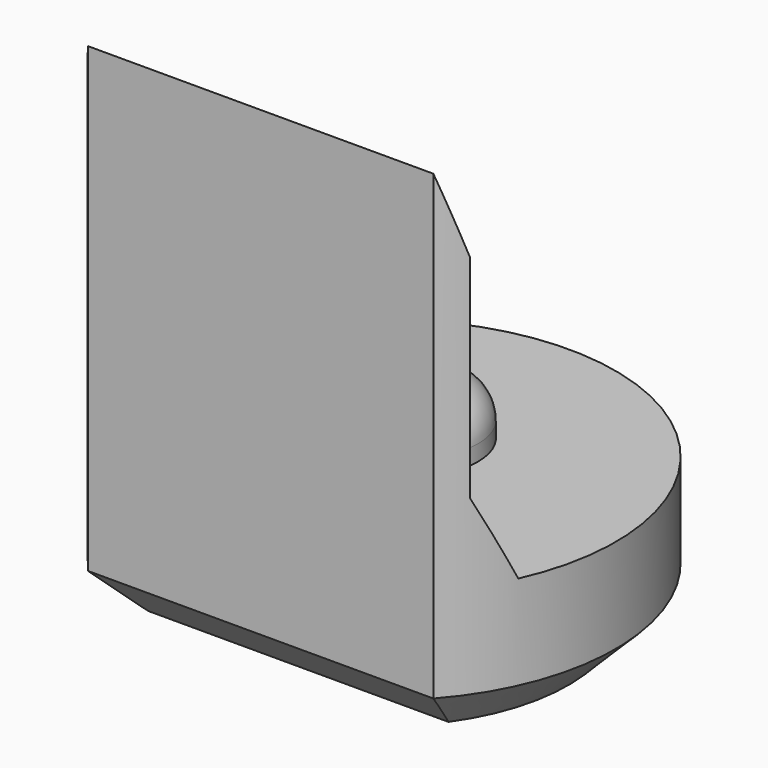
from build123d import *

# Parameters (mm, degrees)
PAD003_DEPTH         = 6.5
POCKET004_DEPTH      = 2.951
POCKET004_DEPTH_BACK = 2.951
SKETCH013_R          = 0.8
PAD006_DEPTH         = 0.7
FILLET_R             = 0.5
CHAMFER004_SIZE      = 0.6


with BuildPart() as part:
    # Sketch004 → Pad003 (new body)
    with BuildSketch(Plane.XY):
        with BuildLine():
            ThreePointArc((2.2, -1.9653244007), (0, 2.95), (-2.2, -1.9653244007))
            Line((-2.2, -1.9653244007), (2.2, -1.9653244007))
        make_face()
    extrude(amount=PAD003_DEPTH)

    # Sketch014 → Pocket004 (cut, two sides)
    with BuildSketch(Plane.YZ) as pocket004_sk:
        Polygon((-1.97, 6.5), (-1.67, 5.5), (-1.67, 2.8), (-1.22, 1.8), (4, 1.8), (4, 6.5), align=None)
    extrude(amount=-POCKET004_DEPTH, mode=Mode.SUBTRACT)
    extrude(pocket004_sk.sketch, amount=POCKET004_DEPTH_BACK, mode=Mode.SUBTRACT)

    # Sketch013 (on Face7 of Pocket004) → Pad006 (join)
    with BuildSketch(Plane.XY.offset(1.8)):
        with Locations((0, 0.5)):
            Circle(SKETCH013_R)
    extrude(amount=PAD006_DEPTH)

    # Fillet
    fillet_edges = [part.edges().sort_by_distance(p)[0] for p in [
        (-0.8, 0.5, 2.5),
    ]]
    fillet(fillet_edges, radius=FILLET_R)

    # Chamfer004
    chamfer004_edges = [part.edges().sort_by_distance(p)[0] for p in [
        (0, 2.95, 0),
        (0, -1.965324, 0),
    ]]
    chamfer(chamfer004_edges, length=CHAMFER004_SIZE)


with BuildPart() as part_1:
    # Body027 placement: moved
    add(part.part.moved(Location((0, 48, 0))))


solid = part_1.part
